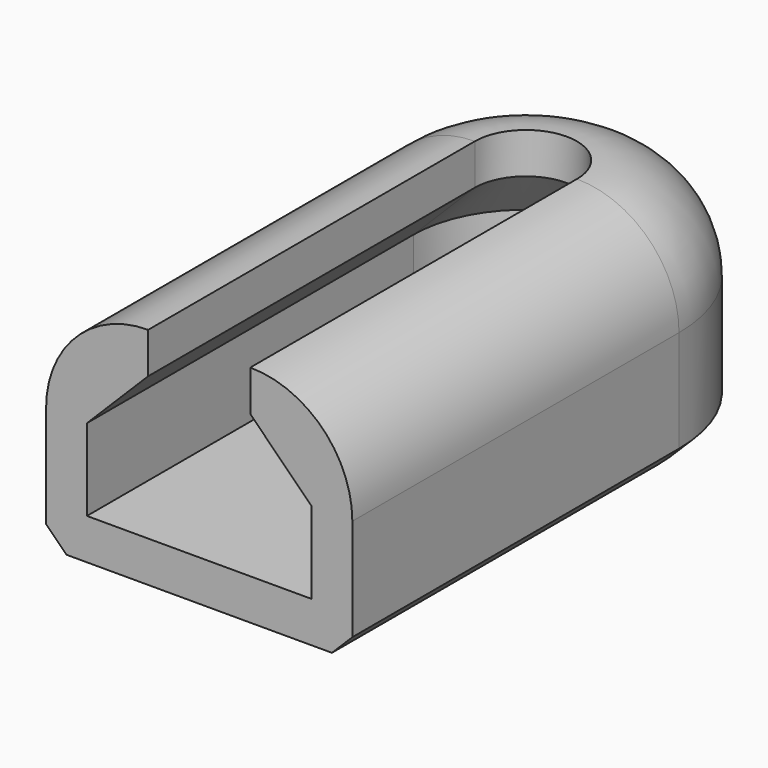
from build123d import *

# Parameters (mm, degrees)
F3_DEPTH = 2
F4_SIZE  = 1


with BuildPart() as f2:
    # F2: sweep along a path in F1
    with BuildLine(Plane.XY) as f2_path:
        Line((0, 0), (0, 20))
        ThreePointArc((0, 20), (2.1966991411, 25.3033008589), (7.5, 27.5))
        ThreePointArc((7.5, 27.5), (12.8033008589, 25.3033008589), (15, 20))
        Line((15, 20), (15, 0))
    # F0 (on Front) → F2 (sweep)
    with BuildSketch(Plane.XZ):
        with BuildLine():
            Line((0, 6), (0, 0))
            Line((0, 0), (2, 0))
            Line((2, 0), (2, 6.0000002682))
            Line((2, 6.0000002682), (5, 9.0000002682))
            Line((5, 9.0000002682), (5, 11))
            ThreePointArc((5, 11), (1.4644660941, 9.5355339059), (0, 6))
        make_face()
    sweep(path=f2_path.line)

    # F1 (on Top) → F3 (join)
    with BuildSketch(Plane.XY):
        with BuildLine():
            Line((0, 20), (0, 0))
            Line((0, 0), (7.5, 0))
            Line((7.5, 0), (15, 0))
            Line((15, 0), (15, 20))
            ThreePointArc((15, 20), (12.8033008589, 25.3033008589), (7.5, 27.5))
            ThreePointArc((7.5, 27.5), (2.1966991411, 25.3033008589), (0, 20))
        make_face()
    extrude(amount=F3_DEPTH)

    # F4
    f4_edges = [f2.edges().sort_by_distance(p)[0] for p in [
        (0, 10, 0),
        (7.5, 27.5, 0),
        (15, 10, 0),
    ]]
    chamfer(f4_edges, length=F4_SIZE)


solid = f2.part
